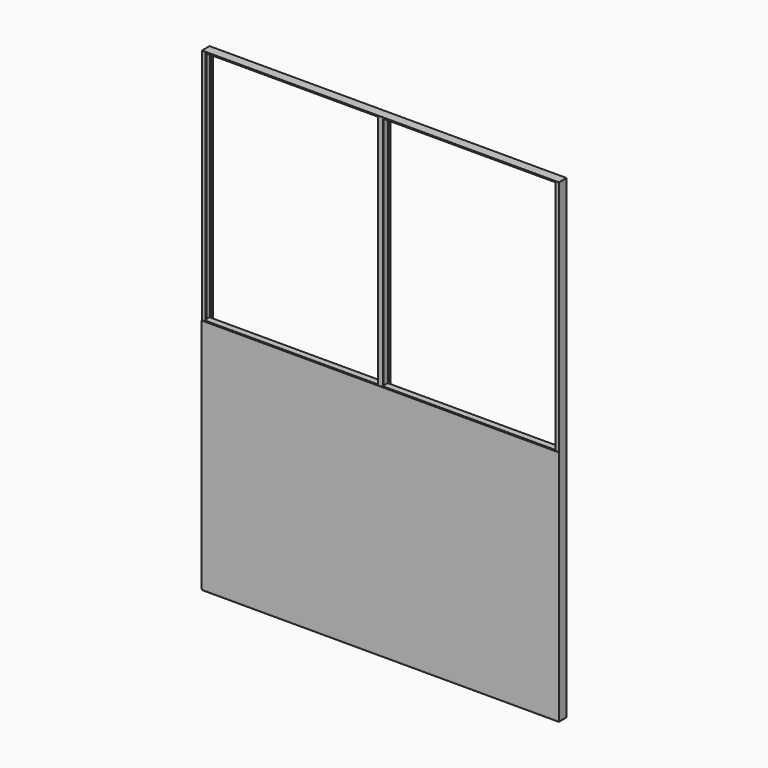
from build123d import *

# Parameters (mm, degrees)
F1_DEPTH  = 2000
F0_W      = 5
F0_H      = 5
F2_W      = 1500
F2_H      = 1000
F3_DEPTH  = 15
F4_DEPTH  = 15
F5_W      = 1510
F5_H      = 40
F6_DEPTH  = 5
F7_W      = 1510
F7_H      = 40
F8_DEPTH  = 5
F10_DEPTH = 15
F11_W     = 1200
F11_H     = 800
F12_DEPTH = 15
F15_W     = 750
F15_H     = 1000
F15_W_2   = 600
F15_H_2   = 350
F16_DEPTH = 12.5
F18_W     = 600
F18_H     = 350
F19_DEPTH = 25
F21_W     = 1512.5146555901
F21_H     = 1000
F22_DEPTH = 2


with BuildPart() as f1:
    # F0 (on Top) → F1 (new body)
    with BuildSketch(Plane.XY):
        Polygon((-750, -15), (-750, 0), (-750, 15), (-740, 15), (-740, 20), (-755, 20), (-755, 0), (-755, -20), (-740, -20), (-740, -15), align=None)
    extrude(amount=F1_DEPTH)


with BuildPart() as f1b:
    # F0 (on Top) → F1, piece 2 (new body)
    with BuildSketch(Plane.XY):
        Polygon((750, -15), (740, -15), (740, -20), (755, -20), (755, 0), (755, 20), (740, 20), (740, 15), (750, 15), (750, 0), align=None)
    extrude(amount=F1_DEPTH)


with BuildPart() as f1c:
    # F0 (on Top) → F1, piece 3 (new body)
    with BuildSketch(Plane.XY):
        Polygon((5, -15), (0, -15), (-5, -15), (-5, -20), (5, -20), align=None)
        Polygon((-5, -15), (0, -15), (0, 0), (0, 15), (-5, 15), (-5, 0), align=None)
        Polygon((0, 0), (0, -15), (5, -15), (5, 0), (5, 15), (0, 15), align=None)
        with Locations((-7.5, -17.5)):
            Rectangle(F0_W, F0_H)
        with Locations((7.5, -17.5)):
            Rectangle(F0_W, F0_H)
        Polygon((-5, 15), (0, 15), (5, 15), (5, 20), (-5, 20), align=None)
        with Locations((-7.5, 17.5)):
            Rectangle(F0_W, F0_H)
        with Locations((7.5, 17.5)):
            Rectangle(F0_W, F0_H)
    extrude(amount=F1_DEPTH)


with BuildPart() as f3:
    # F2 (on Front) → F3 (new body)
    with BuildSketch(Plane.XZ):
        with Locations((0, 500)):
            Rectangle(F2_W, F2_H)
        with Locations((0, 500)):
            Rectangle(F2_W, F2_H)
    extrude(amount=F3_DEPTH)


with BuildPart() as f4:
    # F2 (on Front) → F4 (new body)
    with BuildSketch(Plane.XZ):
        with Locations((0, 500)):
            Rectangle(F2_W, F2_H)
    extrude(amount=-F4_DEPTH)

    # F9 (on face) → F10 (cut)
    with BuildSketch(Plane(origin=(0, 15, 0), x_dir=(-1, 0, 0), z_dir=(0, 1, 0))):
        Polygon((-600, 100), (0, 100), (600, 100), (600, 900), (0, 900), (-600, 900), align=None)
    extrude(amount=-F10_DEPTH, mode=Mode.SUBTRACT)


with BuildPart() as f6:
    # F5 (on face) → F6 (new body)
    with BuildSketch(Plane.XY.offset(2000)):
        Rectangle(F5_W, F5_H)
    extrude(amount=F6_DEPTH)


with BuildPart() as f8:
    # F7 (on face) → F8 (new body)
    with BuildSketch(Plane.XY):
        Rectangle(F7_W, F7_H)
    extrude(amount=-F8_DEPTH)


with BuildPart() as f12:
    # F11 (on face) → F12 (new body)
    with BuildSketch(Plane(origin=(0, 15, 0), x_dir=(-1, 0, 0), z_dir=(0, 1, 0))):
        with Locations((0, 500)):
            Rectangle(F11_W, F11_H)
    extrude(amount=-F12_DEPTH)


with BuildPart() as f16:
    # F15 (on face) → F16 (new body, symmetric)
    with BuildSketch(Plane(origin=(0, 0, 0), x_dir=(-1, 0, 0), z_dir=(0, 1, 0))):
        with Locations((-375, 500)):
            Rectangle(F15_W, F15_H)
        with Locations((-375, 675)):
            Rectangle(F15_W_2, F15_H_2, mode=Mode.SUBTRACT)
    extrude(amount=F16_DEPTH, both=True)


with BuildPart() as f17_1:
    # F17: instance of F16
    add(f16.part.mirror(Plane.YZ))


with BuildPart() as f19:
    # F18 (on face) → F19 (new body, through all)
    with BuildSketch(Plane(origin=(0, 12.5, 0), x_dir=(-1, 0, 0), z_dir=(0, 1, 0))):
        with Locations((-375, 675)):
            Rectangle(F18_W, F18_H)
    extrude(amount=-F19_DEPTH)


with BuildPart() as f20_1:
    # F20: instance of F19
    add(f19.part.mirror(Plane.YZ))


with BuildPart() as f22:
    # F21 (on face) → F22 (new body)
    with BuildSketch(Plane.XZ.offset(20)):
        with Locations((1.257327795, 500)):
            Rectangle(F21_W, F21_H)
    extrude(amount=F22_DEPTH)


solid = Compound([f1.part, f1b.part, f1c.part, f3.part, f6.part, f8.part, f16.part, f17_1.part, f19.part, f20_1.part, f22.part])
